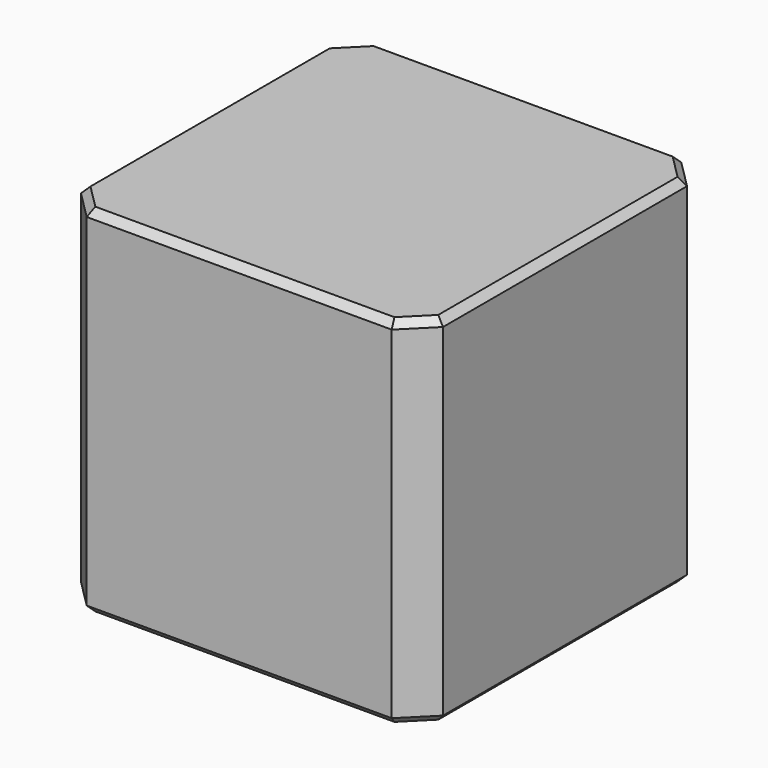
from build123d import *

# Parameters (mm, degrees)
SKETCH210_W     = 2.54
SKETCH210_H     = 2.54
PAD081_DEPTH    = 2.5
CHAMFER017_SIZE = 0.2
CHAMFER016_SIZE = 0.05


with BuildPart() as part:
    # Sketch210 → Pad081 (new body)
    with BuildSketch(Plane.XY):
        Rectangle(SKETCH210_W, SKETCH210_H)
    extrude(amount=PAD081_DEPTH)

    # Chamfer017
    chamfer017_edges = [part.edges().sort_by_distance(p)[0] for p in [
        (1.27, -1.27, 1.25),
        (-1.27, -1.27, 1.25),
        (1.27, 1.27, 1.25),
        (-1.27, 1.27, 1.25),
    ]]
    chamfer(chamfer017_edges, length=CHAMFER017_SIZE)

    # Chamfer016
    chamfer016_edges = [part.edges().sort_by_distance(p)[0] for p in [
        (0, -1.27, 2.5),
        (-1.17, -1.17, 2.5),
        (1.17, -1.17, 2.5),
        (-1.27, 0, 2.5),
        (1.27, 0, 2.5),
        (-1.17, 1.17, 2.5),
        (1.17, 1.17, 2.5),
        (0, 1.27, 2.5),
        (0, -1.27, 0),
        (-1.17, -1.17, 0),
        (1.17, -1.17, 0),
        (-1.27, 0, 0),
        (1.27, 0, 0),
        (-1.17, 1.17, 0),
        (1.17, 1.17, 0),
        (0, 1.27, 0),
    ]]
    chamfer(chamfer016_edges, length=CHAMFER016_SIZE)


solid = part.part
